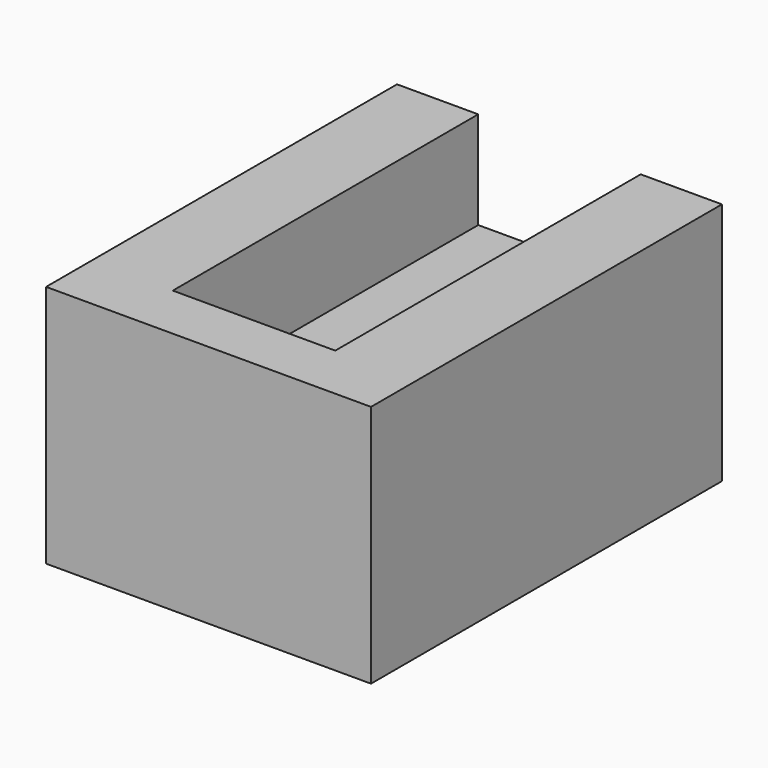
from build123d import *

# Parameters (mm, degrees)
BOX005_W     = 10
BOX005_H     = 25
BOX005_DEPTH = 10
BOX006_W     = 20
BOX006_H     = 27
BOX006_DEPTH = 15


with BuildPart() as gear_box002:
    # Box005 → Box005 (new body)
    with BuildSketch(Plane(origin=(-5, -24.5, 16), x_dir=(1, 0, 0), z_dir=(0, 0, 1))):
        with Locations((5, 12.5)):
            Rectangle(BOX005_W, BOX005_H)
    extrude(amount=BOX005_DEPTH)


with BuildPart() as motor_mount_cutout001:
    # Box006 → Box006 (new body)
    with BuildSketch(Plane(origin=(-10, -28, 7), x_dir=(1, 0, 0), z_dir=(0, 0, 1))):
        with Locations((10, 13.5)):
            Rectangle(BOX006_W, BOX006_H)
    extrude(amount=BOX006_DEPTH)

    # Cut002: cut gear_box002
    add(gear_box002.part, mode=Mode.SUBTRACT)


with BuildPart() as motor_mount_cutout001_1:
    # Cut002 placement: moved
    add(motor_mount_cutout001.part.moved(Location((0, 3.25, -44))))


solid = motor_mount_cutout001_1.part
